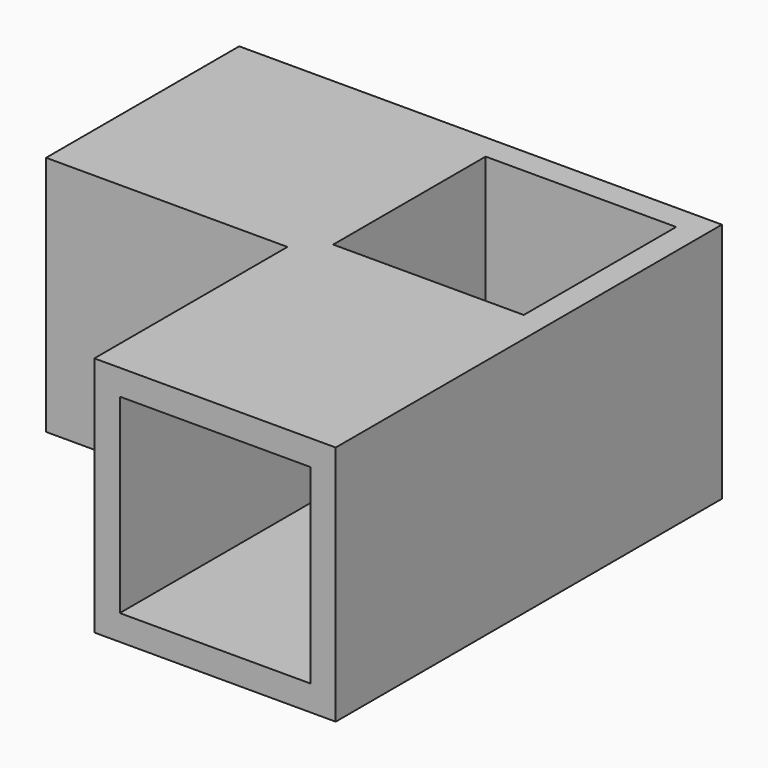
from build123d import *

# Parameters (mm, degrees)
F0_W     = 95
F0_H     = 95
F0_W_2   = 75
F0_H_2   = 75
F1_DEPTH = 95
F2_W     = 95
F2_H     = 95
F2_W_2   = 75
F2_H_2   = 75
F3_DEPTH = 95
F4_W     = 95
F4_H     = 95
F4_W_2   = 75
F4_H_2   = 75
F5_DEPTH = 95


with BuildPart() as f1:
    # F0 (on Top) → F1 (new body)
    with BuildSketch(Plane.XY):
        Rectangle(F0_W, F0_H)
        Rectangle(F0_W_2, F0_H_2, mode=Mode.SUBTRACT)
    extrude(amount=F1_DEPTH)

    # F2 (on face) → F3 (join)
    with BuildSketch(Plane(origin=(-47.5, 0, 0), x_dir=(0, -1, 0), z_dir=(-1, 0, 0))):
        with Locations((0, 47.5)):
            Rectangle(F2_W, F2_H)
        with Locations((0, 47.5)):
            Rectangle(F2_W_2, F2_H_2, mode=Mode.SUBTRACT)
    extrude(amount=F3_DEPTH)

    # F4 (on face) → F5 (join)
    with BuildSketch(Plane.XZ.offset(47.5)):
        with Locations((0, 47.5)):
            Rectangle(F4_W, F4_H)
        with Locations((0, 47.5)):
            Rectangle(F4_W_2, F4_H_2, mode=Mode.SUBTRACT)
    extrude(amount=F5_DEPTH)


solid = f1.part
